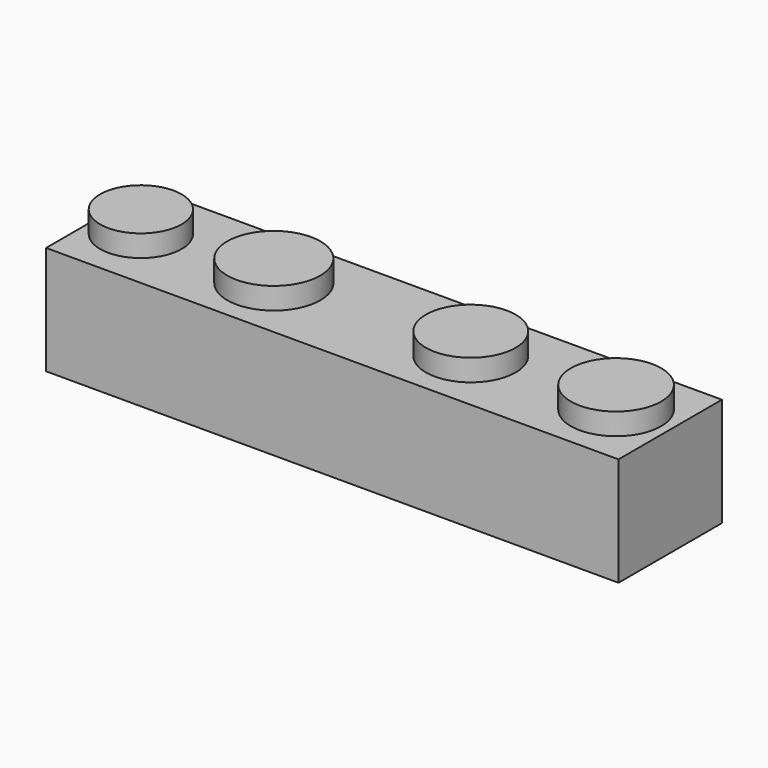
from build123d import *

# Parameters (mm, degrees)
F0_W     = 133.8296830654
F0_H     = 30.2196051925
F0_R     = 12.6806101672
F0_R_2   = 13.1338475118
F0_R_3   = 13.2147961645
F1_DEPTH = 25.4
F2_R     = 9.5291524703
F2_R_2   = 10.876810803
F2_R_3   = 10.4970200843
F2_R_4   = 10.5638834355
F3_DEPTH = 30.48


with BuildPart() as f1:
    # F0 (on Top) → F1 (new body)
    with BuildSketch(Plane.XY):
        Rectangle(F0_W, F0_H)
        with Locations((-49.6464930475, 0)):
            Circle(F0_R, mode=Mode.SUBTRACT)
        Circle(F0_R_2, mode=Mode.SUBTRACT)
        with Locations((45.0416021049, 0)):
            Circle(F0_R_3, mode=Mode.SUBTRACT)
        with Locations((45.0416021049, 0)):
            Circle(F0_R_3)
        Circle(F0_R_2)
        with Locations((-49.6464930475, 0)):
            Circle(F0_R)
    extrude(amount=F1_DEPTH)

    # F2 (on face) → F3 (join)
    with BuildSketch(Plane(origin=(0, 0, 0), x_dir=(1, 0, 0), z_dir=(0, 0, -1))):
        with Locations((-56.8416379392, 0)):
            Circle(F2_R)
        with Locations((-25.7586147636, 0)):
            Circle(F2_R_2)
        with Locations((20.290305838, 0)):
            Circle(F2_R_3)
        with Locations((54.25138399, 0)):
            Circle(F2_R_4)
    extrude(amount=-F3_DEPTH)


solid = f1.part
